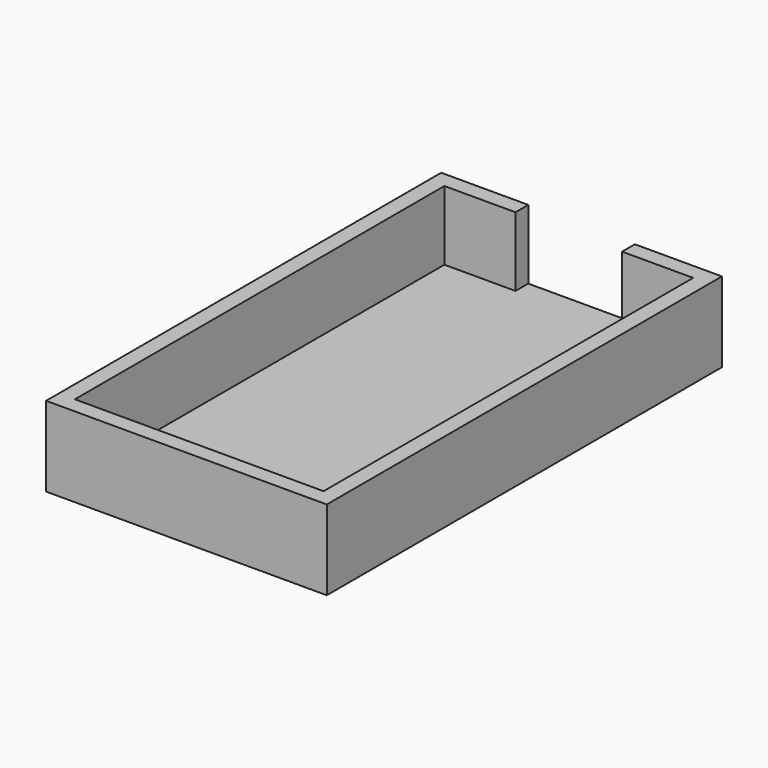
from build123d import *

# Parameters (mm, degrees)
F0_W     = 12
F0_H     = 1.8
F1_DEPTH = 1.2
F2_DEPTH = 9


with BuildPart() as f1:
    # F0 (on Top) → F1 (new body)
    with BuildSketch(Plane.XY):
        Polygon((6, 26), (14, 26), (14, -26), (-14, -26), (-14, 26), (-6, 26), (-6, 27.8), (-15.8, 27.8), (-15.8, -27.8), (15.8, -27.8), (15.8, 27.8), (6, 27.8), align=None)
        with Locations((0, 26.9)):
            Rectangle(F0_W, F0_H)
        Polygon((14, -26), (14, 26), (6, 26), (-6, 26), (-14, 26), (-14, -26), align=None)
    extrude(amount=F1_DEPTH)

    # F0 (on Top) → F2 (join)
    with BuildSketch(Plane.XY):
        Polygon((6, 26), (14, 26), (14, -26), (-14, -26), (-14, 26), (-6, 26), (-6, 27.8), (-15.8, 27.8), (-15.8, -27.8), (15.8, -27.8), (15.8, 27.8), (6, 27.8), align=None)
    extrude(amount=F2_DEPTH)


solid = f1.part
